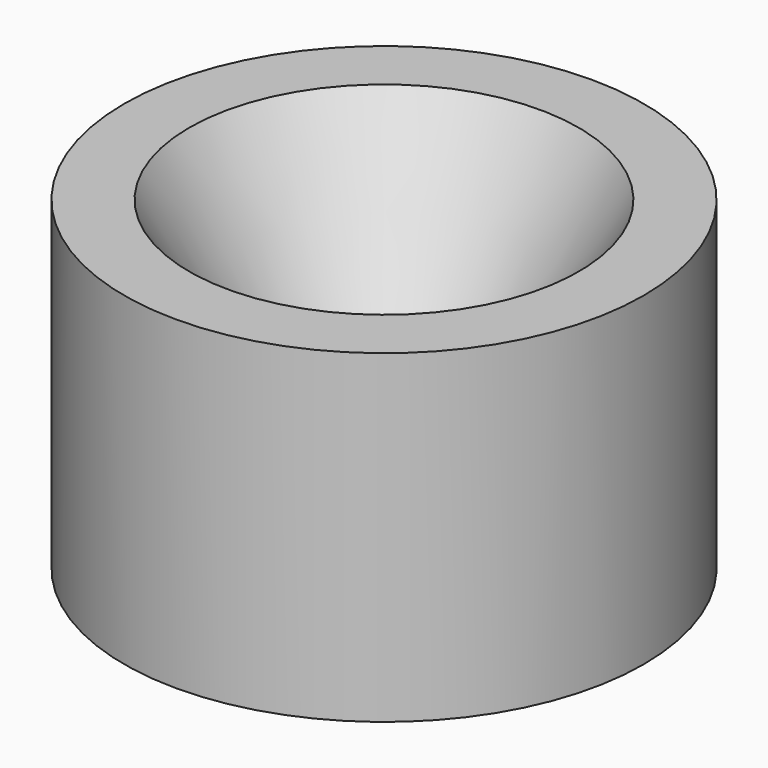
from build123d import *


with BuildPart() as part:
    with BuildSketch(Plane(origin=(0, 0, 0), x_dir=(-1, 0, 0), z_dir=(0, 1, 0))):
        Polygon((4, 0), (4, 5), (3, 5), (1, 1.718461), (1, 1.218461), (2, 0), align=None)
    revolve(axis=Axis((0, 0, -0.993601), (0, 0, 1)))


solid = part.part
